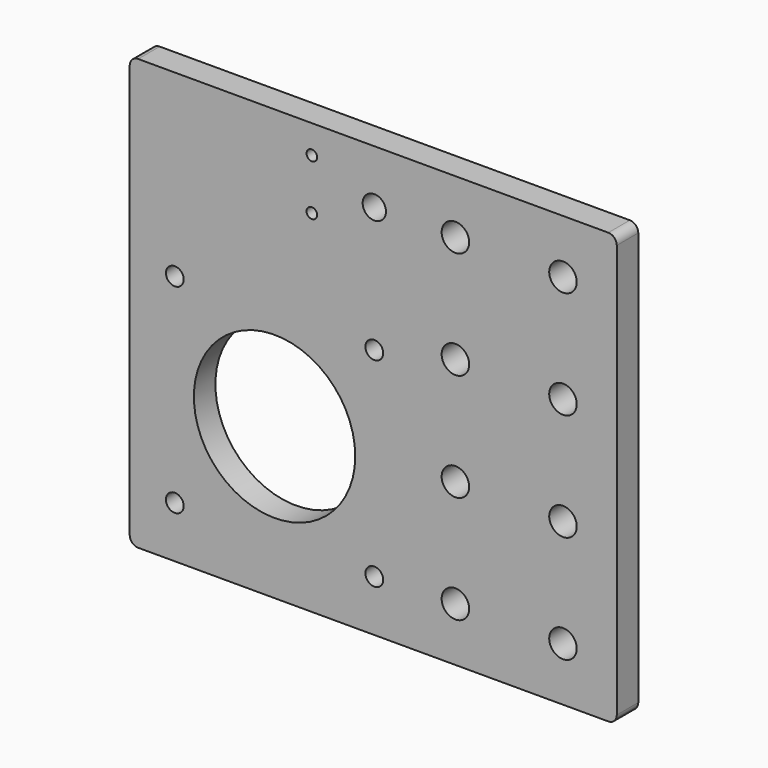
from build123d import *

# Parameters (mm, degrees)
SKETCH002_W   = 115
SKETCH002_H   = 101.6
SKETCH002_R   = 3.25
SKETCH002_R_2 = 19.05
SKETCH002_R_3 = 2.1
PAD002_DEPTH  = 6.35
FILLET_R      = 2
SKETCH004_R   = 1.25
SKETCH004_R_2 = 2.75
POCKET_DEPTH  = 6.351


with BuildPart() as part:
    # Sketch002 → Pad002 (new body)
    with BuildSketch(Plane.XZ):
        Rectangle(SKETCH002_W, SKETCH002_H)
        with Locations((19.4, 38.1)):
            Circle(SKETCH002_R, mode=Mode.SUBTRACT)
        with Locations((44.8, 38.1)):
            Circle(SKETCH002_R, mode=Mode.SUBTRACT)
        with Locations((19.4, 12.7)):
            Circle(SKETCH002_R, mode=Mode.SUBTRACT)
        with Locations((44.8, 12.7)):
            Circle(SKETCH002_R, mode=Mode.SUBTRACT)
        with Locations((19.4, -12.7)):
            Circle(SKETCH002_R, mode=Mode.SUBTRACT)
        with Locations((44.8, -12.7)):
            Circle(SKETCH002_R, mode=Mode.SUBTRACT)
        with Locations((19.4, -38.1)):
            Circle(SKETCH002_R, mode=Mode.SUBTRACT)
        with Locations((44.8, -38.1)):
            Circle(SKETCH002_R, mode=Mode.SUBTRACT)
        with Locations((-23.3, -15.1)):
            Circle(SKETCH002_R_2, mode=Mode.SUBTRACT)
        with Locations((-46.85, 8.45)):
            Circle(SKETCH002_R_3, mode=Mode.SUBTRACT)
        with Locations((0.25, 8.45)):
            Circle(SKETCH002_R_3, mode=Mode.SUBTRACT)
        with Locations((-46.85, -38.65)):
            Circle(SKETCH002_R_3, mode=Mode.SUBTRACT)
        with Locations((0.25, -38.65)):
            Circle(SKETCH002_R_3, mode=Mode.SUBTRACT)
    extrude(amount=PAD002_DEPTH)

    # Fillet
    fillet_edges = [part.edges().sort_by_distance(p)[0] for p in [
        (57.5, -3.175, 50.8),
        (57.5, -3.175, -50.8),
        (-57.5, -3.175, -50.8),
        (-57.5, -3.175, 50.8),
    ]]
    fillet(fillet_edges, radius=FILLET_R)

    # Sketch004 (on Face2 of Fillet) → Pocket (cut, through all)
    with BuildSketch(Plane(origin=(0, 0, 0), x_dir=(1, 0, 0), z_dir=(0, 1, 0))):
        with Locations((-14.5, -32.1)):
            Circle(SKETCH004_R)
        with Locations((-14.5, -44.1)):
            Circle(SKETCH004_R)
        with Locations((0.25, -38.1)):
            Circle(SKETCH004_R_2)
    extrude(amount=-POCKET_DEPTH, mode=Mode.SUBTRACT)


solid = part.part
